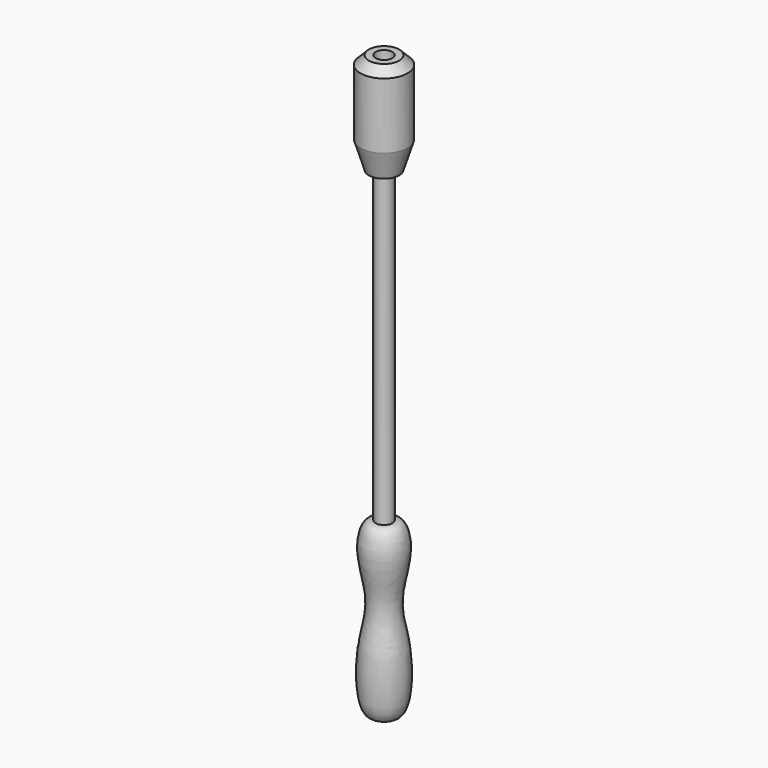
from build123d import *

# Parameters (mm, degrees)
F0_W = 9.525
F0_H = 25.4


with BuildPart() as f1:
    # F0 (on Front) → F1 (revolve)
    with BuildSketch(Plane.XZ):
        with Locations((4.7625, 279.4)):
            Rectangle(F0_W, F0_H)
    revolve(axis=Axis((0, 0, 133.35), (0, 0, -1)))


with BuildPart() as f2:
    # F0 (on Front) → F2 (revolve)
    with BuildSketch(Plane.XZ):
        with BuildLine():
            Line((0, 254), (0, 0))
            add(Edge.make_bspline(
                [(0, 0), (2.1803499293, 0.5233491017), (4.3606998586, 1.0466982033), (6.35, 1.0738762415)],
                knots=[0, 0, 0, 0, 0.062861788, 0.062861788, 0.062861788, 0.062861788], degree=3))
            Line((6.35, 1.0738762415), (6.35, 233.68))
            Line((6.35, 233.68), (6.35, 254))
            Line((6.35, 254), (5.08, 254))
            Line((5.08, 254), (0, 254))
        make_face()
    revolve(axis=Axis((0, 0, 133.35), (0, 0, -1)))


with BuildPart() as f3:
    # F0 (on Front) → F3 (revolve)
    with BuildSketch(Plane.XZ):
        with BuildLine():
            Line((6.35, -127), (0, -127))
            add(Edge.make_bspline(
                [(6.35, 1.0738762415), (7.8993772063, 1.095044004), (13.7285250597, -0.0428116444), (18.6196647051, -20.235162455), (7.1110792096, -54.2460641548), (18.3594769875, -83.1267920232), (16.0117969629, -132.3106806107), (4.0861819887, -128.3552762073), (0, -127)],
                knots=[0.062861788, 0.062861788, 0.062861788, 0.062861788, 0.1118220326, 0.2619547852, 0.4652287792, 0.666458654, 0.8857156932, 1, 1, 1, 1], degree=3))
            Line((6.35, 1.0738762415), (6.35, -127))
        make_face()
        with BuildLine():
            add(Edge.make_bspline(
                [(0, 0), (2.1803499293, 0.5233491017), (4.3606998586, 1.0466982033), (6.35, 1.0738762415)],
                knots=[0, 0, 0, 0, 0.062861788, 0.062861788, 0.062861788, 0.062861788], degree=3))
            Line((0, 0), (0, -127))
            Line((0, -127), (6.35, -127))
            Line((6.35, -127), (6.35, 1.0738762415))
        make_face()
    revolve(axis=Axis((0, 0, 133.35), (0, 0, -1)))


with BuildPart() as f4:
    # F0 (on Front) → F4 (revolve)
    with BuildSketch(Plane.XZ):
        Polygon((5.08, 259.08), (5.08, 254), (6.35, 254), (6.35, 233.68), (11.43, 233.68), (17.78, 254), (17.78, 303.53), (11.43, 309.88), (6.35, 309.88), (6.35, 298.45), (12.7, 298.45), (12.7, 259.08), align=None)
    revolve(axis=Axis((0, 0, 133.35), (0, 0, -1)))


solid = Compound([f1.part, f2.part, f3.part, f4.part])
